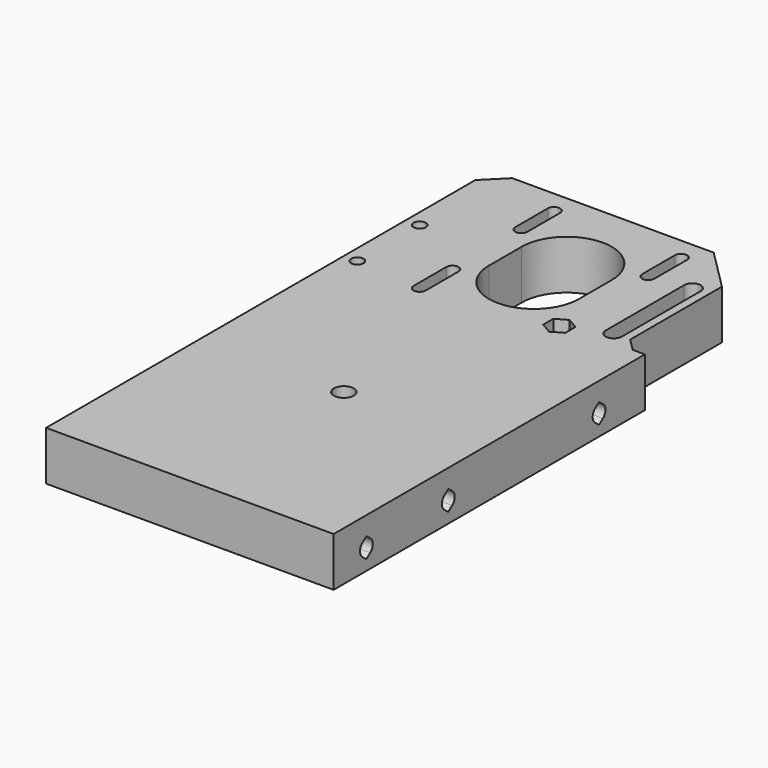
from build123d import *

# Parameters (mm, degrees)
SKETCH_R               = 2.425
PAD_DEPTH              = 12
POCKET_DEPTH           = 20
POCKET001_DEPTH        = 20
SKETCH003_R            = 1.5
POCKET002_DEPTH        = 20
SKETCH004_R            = 1.5
POCKET003_DEPTH        = 20
POCKET004_DEPTH        = 7
POCKET005_DEPTH        = 100
LINEARPATTERN_COUNT    = 2
LINEARPATTERN_PITCH    = 25
LINEARPATTERN001_COUNT = 2
LINEARPATTERN001_PITCH = 71
CHAMFER_SIZE           = 3
CHAMFER001_SIZE        = 10
CHAMFER002_SIZE        = 5


with BuildPart() as part:
    # Sketch → Pad (new body)
    with BuildSketch(Plane.XY):
        Polygon((-35.1, -47), (35.1, -47), (35.1, 48), (29.1, 48), (29.1, 89), (-35.1, 89), align=None)
        Circle(SKETCH_R, mode=Mode.SUBTRACT)
    extrude(amount=PAD_DEPTH)

    # Sketch001 (on Face9 of Pad) → Pocket (cut)
    with BuildSketch(Plane.XY.offset(12)):
        with BuildLine():
            ThreePointArc((11, 68), (0, 79), (-11, 68))
            Line((-11, 68), (-11, 58))
            ThreePointArc((-11, 58), (0, 47), (11, 58))
            Line((11, 58), (11, 68))
        make_face()
        with BuildLine():
            ThreePointArc((-14, 83.5), (-15.5, 85), (-17, 83.5))
            Line((-17, 83.5), (-17, 73.5))
            ThreePointArc((-17, 73.5), (-15.5, 72), (-14, 73.5))
            Line((-14, 73.5), (-14, 83.5))
        make_face()
        with BuildLine():
            ThreePointArc((-14, 52.5), (-15.5, 54), (-17, 52.5))
            Line((-17, 52.5), (-17, 42.5))
            ThreePointArc((-17, 42.5), (-15.5, 41), (-14, 42.5))
            Line((-14, 42.5), (-14, 52.5))
        make_face()
        with BuildLine():
            ThreePointArc((17, 83.5), (15.5, 85), (14, 83.5))
            Line((14, 83.5), (14, 73.5))
            ThreePointArc((14, 73.5), (15.5, 72), (17, 73.5))
            Line((17, 73.5), (17, 83.5))
        make_face()
    extrude(amount=-POCKET_DEPTH, mode=Mode.SUBTRACT)

    # Sketch002 (on Face5 of Pocket) → Pocket001 (cut)
    with BuildSketch(Plane.XY.offset(12)):
        with BuildLine():
            ThreePointArc((27.1, 75), (25.1, 77), (23.1, 75))
            Line((23.1, 75), (23.1, 51))
            ThreePointArc((23.1, 51), (25.1, 49), (27.1, 51))
            Line((27.1, 51), (27.1, 75))
        make_face()
    extrude(amount=-POCKET001_DEPTH, mode=Mode.SUBTRACT)

    # Sketch003 (on Face5 of Pocket001) → Pocket002 (cut)
    with BuildSketch(Plane.XY.offset(12)):
        with Locations((-31.78, 62.85)):
            Circle(SKETCH003_R)
        with Locations((-31.78, 43.85)):
            Circle(SKETCH003_R)
    extrude(amount=-POCKET002_DEPTH, mode=Mode.SUBTRACT)

    # Sketch004 (on Face5 of Pocket002) → Pocket003 (cut)
    with BuildSketch(Plane.XY.offset(12)):
        with Locations((14.999119, 47.004734)):
            Circle(SKETCH004_R)
    extrude(amount=-POCKET003_DEPTH, mode=Mode.SUBTRACT)

    # Sketch005 (on Face5 of Pocket003) → Pocket004 (cut)
    with BuildSketch(Plane.XY.offset(12)):
        Polygon((14.999119, 43.887043), (17.699119, 45.445888), (17.699119, 48.56358), (14.999119, 50.122425), (12.299119, 48.56358), (12.299119, 45.445888), align=None)
    extrude(amount=-POCKET004_DEPTH, mode=Mode.SUBTRACT)

    # Sketch006 (on Face3 of Pocket004) → Pocket005 (cut)
    with BuildSketch(Plane.YZ.offset(35.1)):
        with BuildLine():
            ThreePointArc((-38.180538, 6.552041), (-38.95, 5), (-38.180538, 3.447959))
            Line((-38.180538, 3.447959), (-37, 2.55))
            Line((-37, 2.55), (-35.819462, 3.447959))
            ThreePointArc((-35.819462, 3.447959), (-35.05, 5), (-35.819462, 6.552041))
            Line((-37, 7.45), (-35.819462, 6.552041))
            Line((-37, 7.45), (-38.180538, 6.552041))
        make_face()
    pocket005 = extrude(amount=-POCKET005_DEPTH, mode=Mode.SUBTRACT)

    # LinearPattern: Pocket005 ×2
    with Locations(*[(0, i * LINEARPATTERN_PITCH, 0) for i in range(1, LINEARPATTERN_COUNT)]):
        add(pocket005, mode=Mode.SUBTRACT)

    # LinearPattern001: Pocket005 ×2
    with Locations(*[(0, i * LINEARPATTERN001_PITCH, 0) for i in range(1, LINEARPATTERN001_COUNT)]):
        add(pocket005, mode=Mode.SUBTRACT)

    # Chamfer
    chamfer_edges = [part.edges().sort_by_distance(p)[0] for p in [
        (29.1, 48, 6),
    ]]
    chamfer(chamfer_edges, length=CHAMFER_SIZE)

    # Chamfer001
    chamfer001_edges = [part.edges().sort_by_distance(p)[0] for p in [
        (29.1, 89, 6),
    ]]
    chamfer(chamfer001_edges, length=CHAMFER001_SIZE)

    # Chamfer002
    chamfer002_edges = [part.edges().sort_by_distance(p)[0] for p in [
        (-35.1, 89, 6),
    ]]
    chamfer(chamfer002_edges, length=CHAMFER002_SIZE)


solid = part.part
